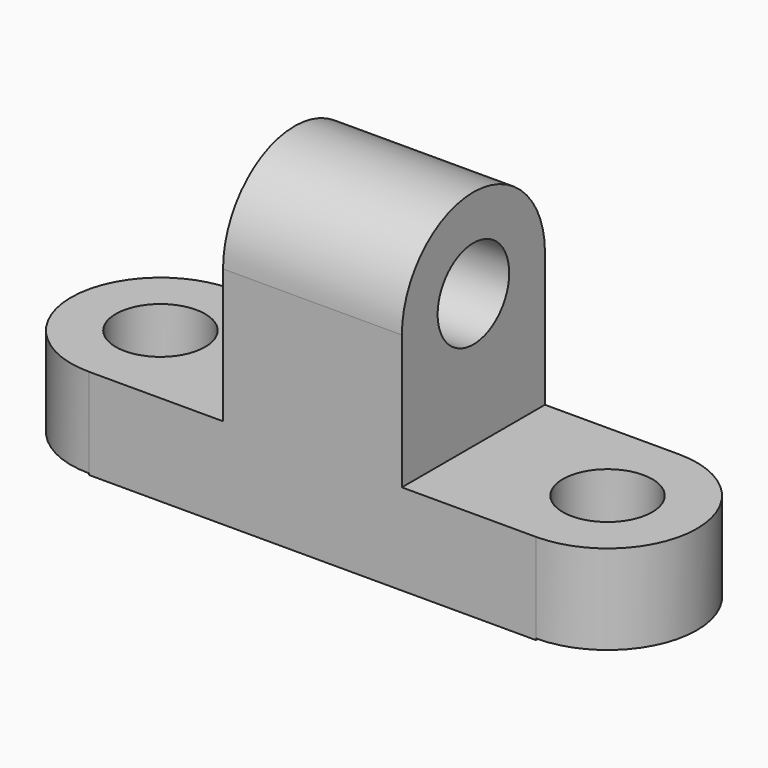
from build123d import *

# Parameters (mm, degrees)
F0_W      = 63.5
F0_H      = 38.1
F1_DEPTH  = 25.4
F3_DEPTH  = 25.4
F5_DEPTH  = 25.4
F7_DEPTH  = 12.7
F9_DEPTH  = 12.7
F10_R     = 6.35
F11_DEPTH = 25.4
F12_R     = 6.35
F13_DEPTH = 25.4
F14_R     = 6.35
F15_DEPTH = 25.4


with BuildPart() as f1:
    # F0 (on Front) → F1 (new body)
    with BuildSketch(Plane.XZ):
        with Locations((31.75, 19.05)):
            Rectangle(F0_W, F0_H)
    extrude(amount=F1_DEPTH)

    # F2 (on face) → F3 (cut)
    with BuildSketch(Plane.XZ.offset(25.4)):
        Polygon((0, 38.1), (0, 12.909415), (19.05, 12.909415), (19.05, 31.959415), (44.45, 31.959415), (44.45, 12.909415), (63.5, 12.909415), (63.5, 38.1), align=None)
    extrude(amount=-F3_DEPTH, mode=Mode.SUBTRACT)

    # F4 (on face) → F5 (join)
    with BuildSketch(Plane.YZ.offset(44.45)):
        with BuildLine():
            Line((-25.4, 31.959415), (0, 31.959415))
            ThreePointArc((0, 31.959415), (-12.7, 44.659415), (-25.4, 31.959415))
        make_face()
    extrude(amount=-F5_DEPTH)

    # F6 (on face) → F7 (join)
    with BuildSketch(Plane.XY.offset(12.909415)):
        with BuildLine():
            Line((0, -25.4), (0, 0))
            ThreePointArc((0, 0), (-12.7, -12.7), (0, -25.4))
        make_face()
    extrude(amount=-F7_DEPTH)

    # F8 (on face) → F9 (join)
    with BuildSketch(Plane.XY.offset(12.909415)):
        with BuildLine():
            Line((63.5, 0), (63.5, -25.4))
            ThreePointArc((63.5, -25.4), (76.2, -12.7), (63.5, 0))
        make_face()
    extrude(amount=-F9_DEPTH)

    # F10 (on face) → F11 (cut)
    with BuildSketch(Plane.YZ.offset(44.45)):
        with Locations((-12.7, 31.959415)):
            Circle(F10_R)
    extrude(amount=-F11_DEPTH, mode=Mode.SUBTRACT)

    # F12 (on face) → F13 (cut)
    with BuildSketch(Plane.XY.offset(12.909415)):
        with Locations((63.5, -12.7)):
            Circle(F12_R)
    extrude(amount=-F13_DEPTH, mode=Mode.SUBTRACT)

    # F14 (on face) → F15 (cut)
    with BuildSketch(Plane.XY.offset(12.909415)):
        with Locations((0, -12.7)):
            Circle(F14_R)
    extrude(amount=-F15_DEPTH, mode=Mode.SUBTRACT)


solid = f1.part
